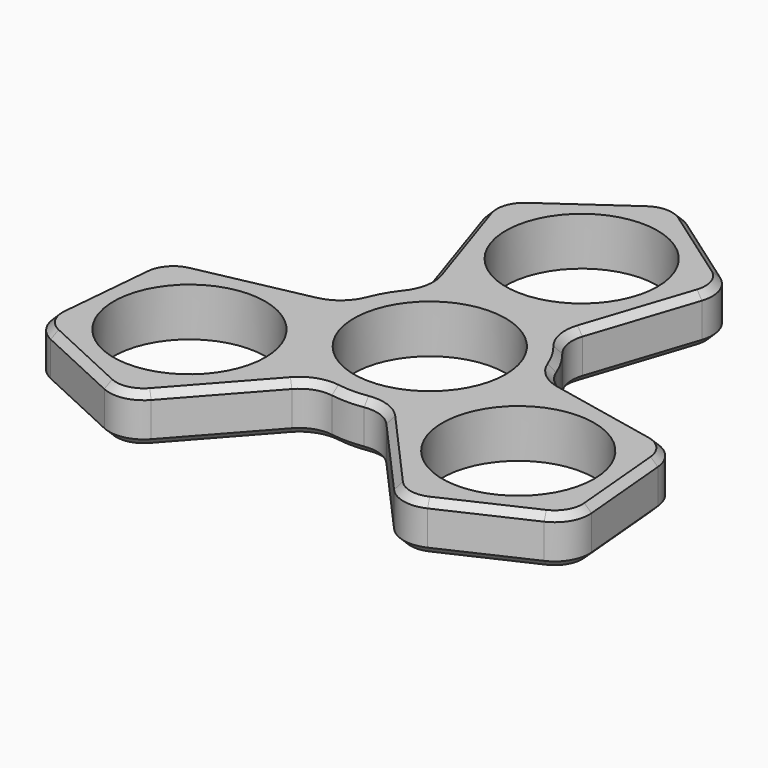
from build123d import *

# Parameters (mm, degrees)
F0_R     = 11
F1_DEPTH = 3.5
F2_R     = 5
F3_SIZE  = 1


with BuildPart() as f1:
    # F0 (on Top) → F1 (new body, symmetric)
    with BuildSketch(Plane.XY):
        with BuildLine():
            Line((17.023025, 33.009872), (0, 45))
            Line((0, 45), (-17.023025, 33.009872))
            Line((-17.023025, 33.009872), (-9.861474, 11.302714))
            ThreePointArc((-9.861474, 11.302714), (0, 15), (9.861474, 11.302714))
            Line((9.861474, 11.302714), (17.023025, 33.009872))
        make_face()
        with Locations((0, 27.524821)):
            Circle(F0_R, mode=Mode.SUBTRACT)
        with BuildLine():
            ThreePointArc((-4.8577, -14.191644), (-12.990381, -7.5), (-14.719174, 2.88893))
            Line((-14.719174, 2.88893), (-37.0989, -1.762564))
            Line((-37.0989, -1.762564), (-38.971143, -22.5))
            Line((-38.971143, -22.5), (-20.075875, -31.247308))
            Line((-20.075875, -31.247308), (-4.8577, -14.191644))
        make_face()
        with Locations((-23.837195, -13.762411)):
            Circle(F0_R, mode=Mode.SUBTRACT)
        with BuildLine():
            Line((37.0989, -1.762564), (14.719174, 2.88893))
            ThreePointArc((14.719174, 2.88893), (14.929628, 1.451273), (15, 0))
            ThreePointArc((15, 0), (12.203801, -8.721654), (4.8577, -14.191644))
            Line((4.8577, -14.191644), (20.075875, -31.247308))
            Line((20.075875, -31.247308), (38.971143, -22.5))
            Line((38.971143, -22.5), (37.0989, -1.762564))
        make_face()
        with Locations((23.837195, -13.762411)):
            Circle(F0_R, mode=Mode.SUBTRACT)
        with BuildLine():
            ThreePointArc((9.861474, 11.302714), (0, 15), (-9.861474, 11.302714))
            ThreePointArc((-9.861474, 11.302714), (-12.990381, 7.5), (-14.719174, 2.88893))
            ThreePointArc((-14.719174, 2.88893), (-12.990381, -7.5), (-4.8577, -14.191644))
            ThreePointArc((-4.8577, -14.191644), (0, -15), (4.8577, -14.191644))
            ThreePointArc((4.8577, -14.191644), (12.203801, -8.721654), (15, 0))
            ThreePointArc((15, 0), (14.929628, 1.451273), (14.719174, 2.88893))
            ThreePointArc((14.719174, 2.88893), (12.990381, 7.5), (9.861474, 11.302714))
        make_face()
        Circle(F0_R, mode=Mode.SUBTRACT)
    extrude(amount=F1_DEPTH, both=True)

    # F2
    f2_edges = [f1.edges().sort_by_distance(p)[0] for p in [
        (17.023025, 33.009872, 0),
        (9.861474, 11.302714, 0),
        (14.719174, 2.88893, 0),
        (37.0989, -1.762564, 0),
        (38.971143, -22.5, 0),
        (4.8577, -14.191644, 0),
        (20.075875, -31.247308, 0),
        (-4.8577, -14.191644, 0),
        (-20.075875, -31.247308, 0),
        (-38.971143, -22.5, 0),
        (-37.0989, -1.762564, 0),
        (-14.719174, 2.88893, 0),
        (-9.861474, 11.302714, 0),
        (-17.023025, 33.009872, 0),
        (0, 45, 0),
    ]]
    fillet(f2_edges, radius=F2_R)

    # F3
    f3_edges = [f1.edges().sort_by_distance(p)[0] for p in [
        (8.435968, 39.058145, -3.5),
        (-38.04333, -12.22331, 3.5),
    ]]
    chamfer(f3_edges, length=F3_SIZE)


solid = f1.part
